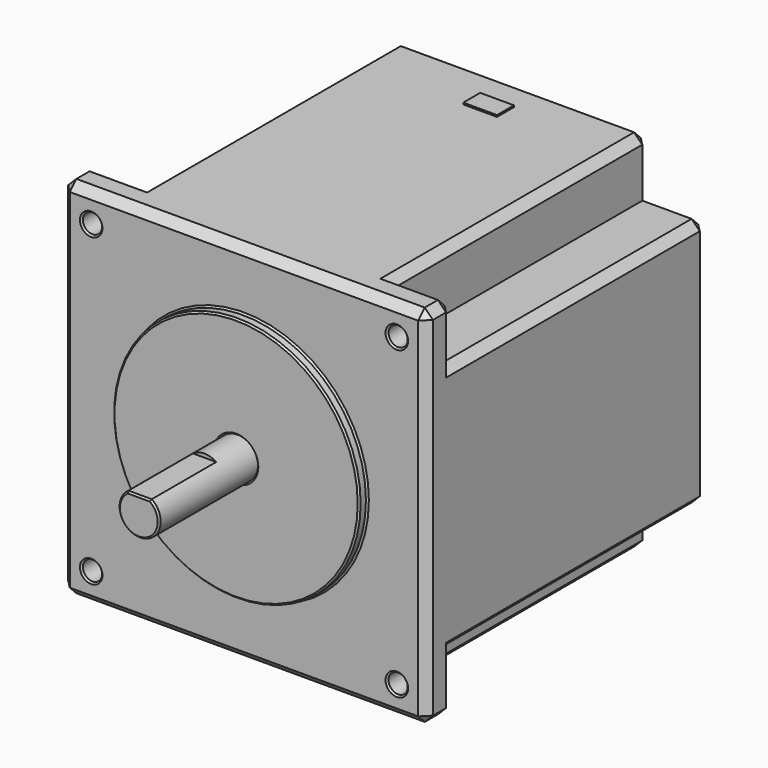
from build123d import *

# Parameters (mm, degrees)
F0_W      = 56.388
F0_H      = 56.388
F0_R      = 1.4859
F0_R_2    = 19.05
F0_R_3    = 3.175
F1_DEPTH  = 54.102
F2_DEPTH  = 1.524
F3_DEPTH  = 20.32
F5_DEPTH  = 12.7
F6_W      = 8.89
F6_H      = 8.89
F7_DEPTH  = 49.022
F8_SIZE   = 1.27
F9_SIZE   = 0.254
F9_2_SIZE = 0.254
F10_W     = 5.2164322697
F10_H     = 3.265157342
F11_DEPTH = 0.254


with BuildPart() as f1:
    # F0 (on Front) → F1 (new body)
    with BuildSketch(Plane.XZ):
        Rectangle(F0_W, F0_H)
        with Locations((-23.622, -23.622)):
            Circle(F0_R, mode=Mode.SUBTRACT)
        with Locations((23.622, -23.622)):
            Circle(F0_R, mode=Mode.SUBTRACT)
        with Locations((-23.622, 23.622)):
            Circle(F0_R, mode=Mode.SUBTRACT)
        Circle(F0_R_2, mode=Mode.SUBTRACT)
        with Locations((23.622, 23.622)):
            Circle(F0_R, mode=Mode.SUBTRACT)
        Circle(F0_R_2)
        Circle(F0_R_3, mode=Mode.SUBTRACT)
        Circle(F0_R_3)
    extrude(amount=-F1_DEPTH)

    # F0 (on Front) → F2 (join)
    with BuildSketch(Plane.XZ):
        Circle(F0_R_2)
        Circle(F0_R_3, mode=Mode.SUBTRACT)
    extrude(amount=F2_DEPTH)

    # F6 (on face) → F7 (cut)
    with BuildSketch(Plane(origin=(0, 54.102, 0), x_dir=(-1, 0, 0), z_dir=(0, 1, 0))):
        with Locations((-23.749, 23.749)):
            Rectangle(F6_W, F6_H)
        with Locations((23.749, 23.749)):
            Rectangle(F6_W, F6_H)
        with Locations((23.749, -23.749)):
            Rectangle(F6_W, F6_H)
        with Locations((-23.749, -23.749)):
            Rectangle(F6_W, F6_H)
    extrude(amount=-F7_DEPTH, mode=Mode.SUBTRACT)

    # F8
    f8_edges = [f1.edges().sort_by_distance(p)[0] for p in [
        (-28.194, 0, 0),
        (-28.194, 2.54, -28.194),
        (-28.194, 5.08, -23.749),
        (-28.194, 29.591, -19.304),
        (-28.194, 54.102, 0),
        (-28.194, 29.591, 19.304),
        (-28.194, 5.08, 23.749),
        (-28.194, 2.54, 28.194),
        (0, 0, 28.194),
        (-23.749, 5.08, 28.194),
        (-19.304, 29.591, 28.194),
        (0, 54.102, 28.194),
        (19.304, 29.591, 28.194),
        (23.749, 5.08, 28.194),
        (28.194, 2.54, 28.194),
        (28.194, 0, 0),
        (28.194, 5.08, 23.749),
        (28.194, 29.591, 19.304),
        (28.194, 54.102, 0),
        (28.194, 29.591, -19.304),
        (28.194, 5.08, -23.749),
        (28.194, 2.54, -28.194),
        (0, 0, -28.194),
        (23.749, 5.08, -28.194),
        (19.304, 29.591, -28.194),
        (0, 54.102, -28.194),
        (-19.304, 29.591, -28.194),
        (-23.749, 5.08, -28.194),
        (23.749, 54.102, -19.304),
        (19.304, 54.102, -23.749),
        (-19.304, 54.102, -23.749),
        (-23.749, 54.102, -19.304),
        (-23.749, 54.102, 19.304),
        (-19.304, 54.102, 23.749),
        (19.304, 54.102, 23.749),
        (23.749, 54.102, 19.304),
    ]]
    chamfer(f8_edges, length=F8_SIZE)

    # F9
    f9_edges = [f1.edges().sort_by_distance(p)[0] for p in [
        (-25.1079, 5.08, 23.622),
        (-25.1079, 5.08, -23.622),
        (22.1361, 5.08, 23.622),
        (22.1361, 5.08, -23.622),
        (22.1361, 0, -23.622),
        (22.1361, 0, 23.622),
        (-25.1079, 0, 23.622),
        (-25.1079, 0, -23.622),
        (-19.05, 0, 0),
        (-19.05, -1.524, 0),
        (-3.175, -1.524, 0),
    ]]
    chamfer(f9_edges, length=F9_SIZE)

    # F10 (on face) → F11 (join)
    with BuildSketch(Plane.XY.offset(28.194)):
        with Locations((0, 47.2612604499)):
            Rectangle(F10_W, F10_H)
    extrude(amount=F11_DEPTH)


with BuildPart() as f3:
    # F0 (on Front) → F3 (new body)
    with BuildSketch(Plane.XZ):
        Circle(F0_R_3)
    extrude(amount=F3_DEPTH)

    # F4 (on face) → F5 (cut)
    with BuildSketch(Plane.XZ.offset(20.32)):
        with BuildLine():
            ThreePointArc((1.7989226109, 2.6162), (0, 3.175), (-1.7989226109, 2.6162))
            Line((-1.7989226109, 2.6162), (1.7989226109, 2.6162))
        make_face()
    extrude(amount=-F5_DEPTH, mode=Mode.SUBTRACT)

    # F9#2
    f9_2_edges = [f3.edges().sort_by_distance(p)[0] for p in [
        (-1.478013, -20.32, -2.81),
        (0, -20.32, 2.6162),
    ]]
    chamfer(f9_2_edges, length=F9_2_SIZE)


solid = Compound([f1.part, f3.part])
